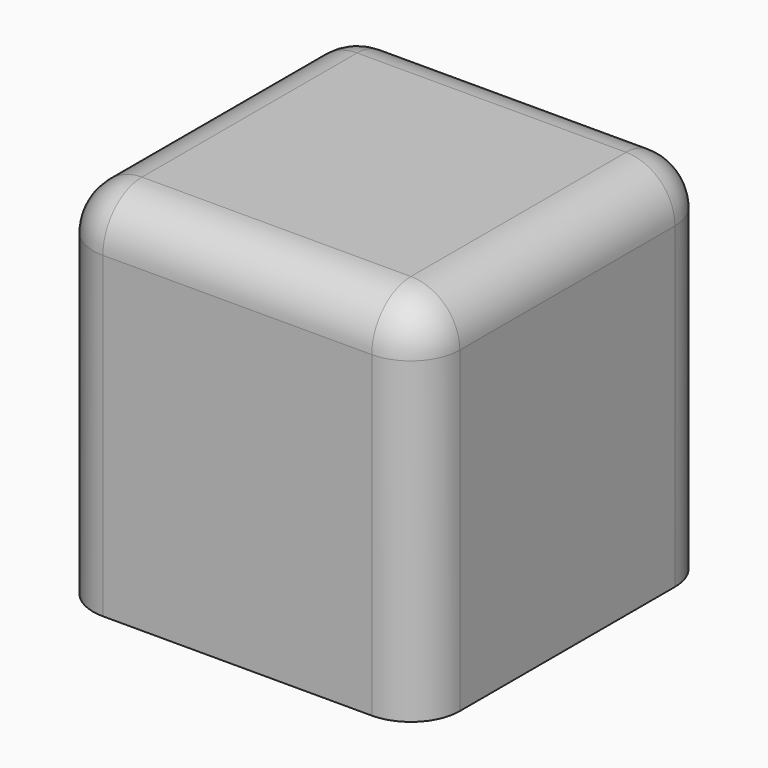
from build123d import *

# Parameters (mm, degrees)
F1_W     = 38.1
F1_H     = 38.1
F2_DEPTH = 19.05
F3_R     = 5.08


with BuildPart() as f2:
    # F1 (on face) → F2 (new body, symmetric)
    with BuildSketch(Plane.XY):
        Rectangle(F1_W, F1_H)
    extrude(amount=F2_DEPTH, both=True)

    # F3
    f3_edges = [f2.edges().sort_by_distance(p)[0] for p in [
        (0, -19.05, 19.05),
        (19.05, 0, 19.05),
        (0, 19.05, 19.05),
        (-19.05, 0, 19.05),
        (19.05, -19.05, 0),
        (-19.05, -19.05, 0),
        (19.05, 19.05, 0),
        (-19.05, 19.05, 0),
    ]]
    fillet(f3_edges, radius=F3_R)


solid = f2.part
